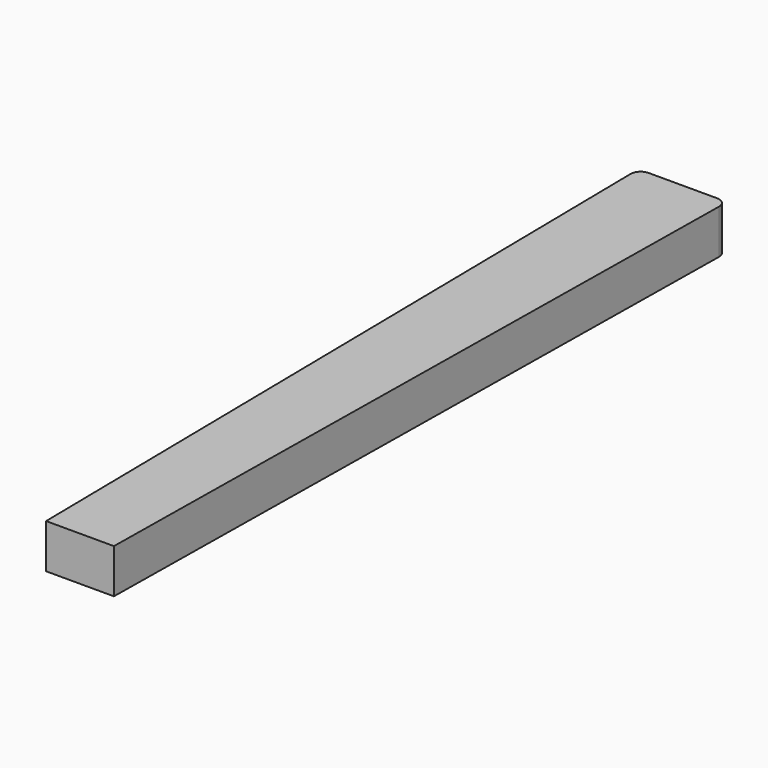
from build123d import *

# Parameters (mm, degrees)
F2_W = 42.8625
F2_H = 27.94
F0_W = 56.1086
F0_H = 27.94
F4_R = 6.35


with BuildPart() as f3:
    # F2 (on offset) → F3 section 0
    with BuildSketch(Plane.XZ.offset(476.25)):
        Rectangle(F2_W, F2_H)
    # F0 (on Front) → F3 section 1
    with BuildSketch(Plane.XZ):
        Rectangle(F0_W, F0_H)
    loft()

    # F4
    f4_edges = [f3.edges().sort_by_distance(p)[0] for p in [
        (-28.0543, 0, 0),
        (28.0543, 0, 0),
    ]]
    fillet(f4_edges, radius=F4_R)


solid = f3.part
